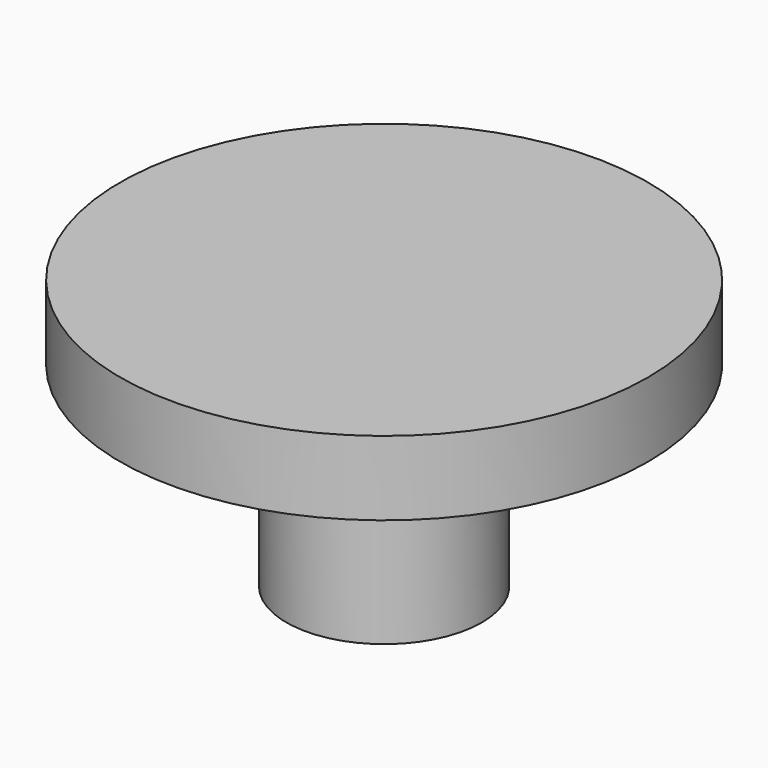
from build123d import *

# Parameters (mm, degrees)
F0_R     = 13.5
F1_DEPTH = 3.8
F2_R     = 5
F3_DEPTH = 10


with BuildPart() as f1:
    # F0 (on Top) → F1 (new body)
    with BuildSketch(Plane.XY):
        Circle(F0_R)
    extrude(amount=F1_DEPTH)


with BuildPart() as f3:
    # F2 (on face) → F3 (new body)
    with BuildSketch(Plane(origin=(0, 0, 0), x_dir=(1, 0, 0), z_dir=(0, 0, -1))):
        Circle(F2_R)
    extrude(amount=F3_DEPTH)


solid = Compound([f1.part, f3.part])
